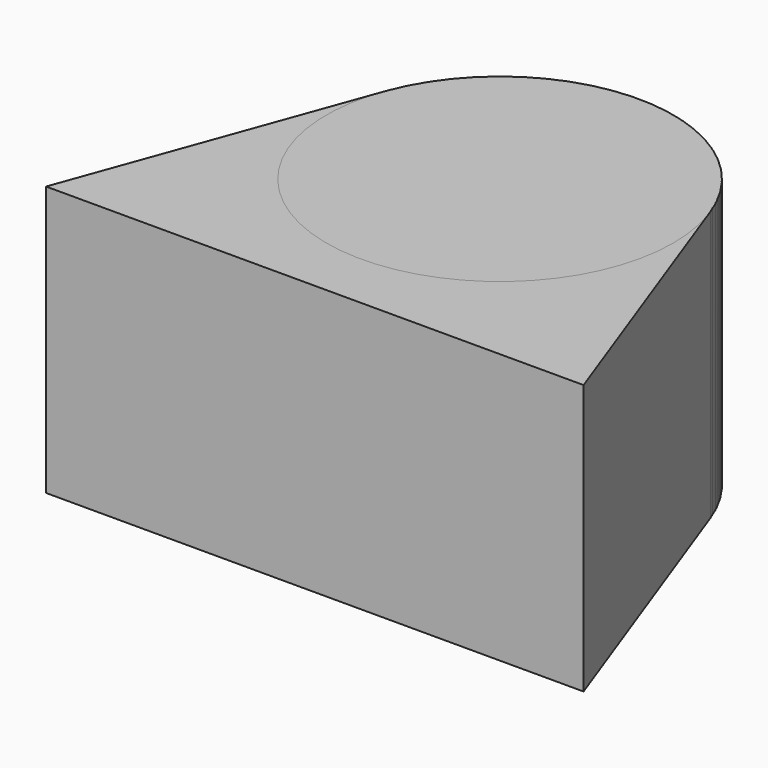
from build123d import *

# Parameters (mm, degrees)
SKETCH003_R      = 3
SKETCH003_R_2    = 1.7
PAD001_DEPTH     = 5
CHAMFER001_ANGLE = 8
CHAMFER001_SIZE  = 3
SKETCH_R         = 1.7
PAD_DEPTH        = 2
SKETCH005_R      = 1.7
SKETCH004_R      = 2.1
PAD002_DEPTH     = 3.5
SKETCH007_R      = 4.5
PAD003_DEPTH     = 3.5


with BuildPart() as obj1:
    # Sketch003 → Pad001 (new body)
    with BuildSketch(Plane.XY):
        Circle(SKETCH003_R)
        Circle(SKETCH003_R_2, mode=Mode.SUBTRACT)
    extrude(amount=PAD001_DEPTH)

    # Chamfer001
    chamfer001_edges = [obj1.edges().sort_by_distance(p)[0] for p in [
        (-1.7, 0, 0),
    ]]
    chamfer001_side = obj1.faces().sort_by_distance((-1.7, 0, 2.5))[0]
    chamfer(chamfer001_edges, length=CHAMFER001_SIZE, angle=CHAMFER001_ANGLE, reference=chamfer001_side)


with BuildPart() as obj1_1:
    # Body001 placement: moved
    add(obj1.part.moved(Location((0, 0, -3))))


with BuildPart() as cutoutheatset:
    # Sketch → Pad (new body)
    with BuildSketch(Plane.XY):
        Circle(SKETCH_R)
    extrude(amount=PAD_DEPTH)

    # Sketch005 → AdditiveLoft section 0
    with BuildSketch(Plane.XY):
        Circle(SKETCH005_R)
    # Sketch004 → AdditiveLoft section 1
    with BuildSketch(Plane.XY.offset(-3)):
        Circle(SKETCH004_R)
    loft()


with BuildPart() as obj2:
    # Sketch006 → Pad002 (new body, symmetric)
    with BuildSketch(Plane.XY):
        with BuildLine():
            ThreePointArc((4.228617, 1.539091), (0, 4.5), (-4.228617, 1.539091))
            Line((-4.228617, 1.539091), (-6.972621, -6))
            Line((-6.972621, -6), (6.972621, -6))
            Line((6.972621, -6), (4.228617, 1.539091))
        make_face()
    extrude(amount=PAD002_DEPTH, both=True)


with BuildPart() as obj2_1:
    # Body002 placement: moved
    add(obj2.part.moved(Location((0, 0, 0.5))))

    # Cut: cut CutoutHeatset
    add(cutoutheatset.part, mode=Mode.SUBTRACT)


with BuildPart() as obj3:
    # Sketch007 → Pad003 (new body, symmetric)
    with BuildSketch(Plane.XY):
        Circle(SKETCH007_R)
    extrude(amount=PAD003_DEPTH, both=True)


with BuildPart() as obj3_1:
    # Body003 placement: moved
    add(obj3.part.moved(Location((0, 0, 0.5))))

    # Cut002: cut CutoutHeatset
    add(cutoutheatset.part, mode=Mode.SUBTRACT)


solid = Compound([obj1_1.part, obj2_1.part, obj3_1.part])
